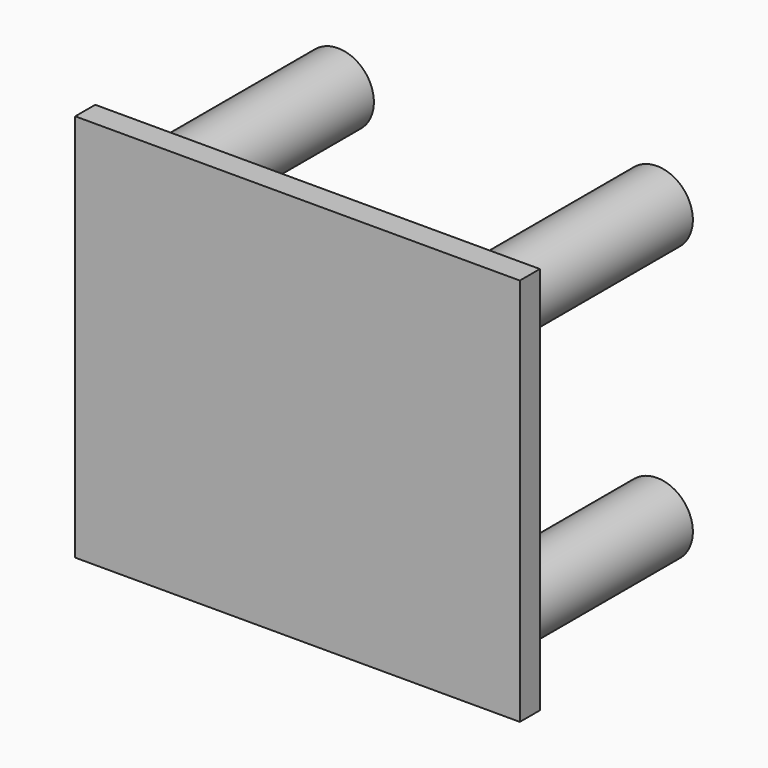
from build123d import *

# Parameters (mm, degrees)
F0_W     = 126.476288
F0_H     = 110.529274
F1_DEPTH = 7.112
F2_R     = 10.185881
F3_DEPTH = 64.008


with BuildPart() as f1:
    # F0 (on Front) → F1 (new body)
    with BuildSketch(Plane.XZ):
        Rectangle(F0_W, F0_H)
    extrude(amount=F1_DEPTH)

    # F2 (on face) → F3 (join)
    with BuildSketch(Plane(origin=(0, 0, 0), x_dir=(-1, 0, 0), z_dir=(0, 1, 0))):
        with Locations((45.366492, 39.042681)):
            Circle(F2_R)
        with Locations((45.366492, -39.042681)):
            Circle(F2_R)
        with Locations((-45.366492, -39.042681)):
            Circle(F2_R)
        with Locations((-45.366492, 39.042681)):
            Circle(F2_R)
    extrude(amount=F3_DEPTH)


solid = f1.part
